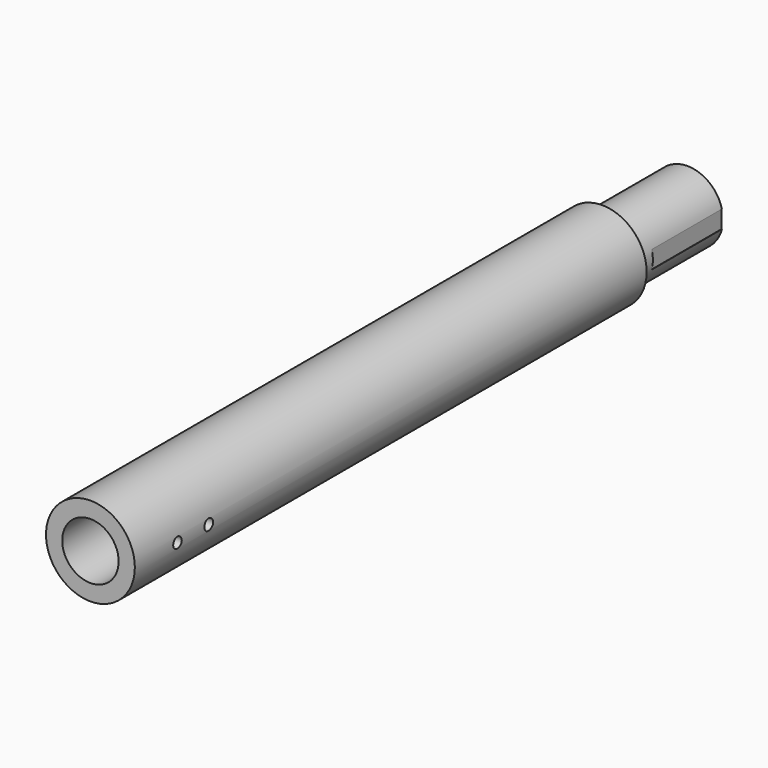
from build123d import *

# Parameters (mm, degrees)
F0_R      = 25
F1_DEPTH  = 420
F2_R      = 15.875
F3_DEPTH  = 70
F4_R      = 3
F4_R_2    = 3.094555
F5_DEPTH  = 48.2
F6_R      = 25
F6_R_2    = 20
F7_DEPTH  = 60
F9_W      = 98.705204
F9_H      = 10
F10_DEPTH = 0.8


with BuildPart() as f1:
    # F0 (on Front) → F1 (new body)
    with BuildSketch(Plane.XZ):
        Circle(F0_R)
    extrude(amount=F1_DEPTH)

    # F2 (on face) → F3 (cut)
    with BuildSketch(Plane.XZ.offset(420)):
        Circle(F2_R)
    extrude(amount=-F3_DEPTH, mode=Mode.SUBTRACT)

    # F4 (on Right) → F5 (cut)
    with BuildSketch(Plane.YZ):
        with Locations((-390, 0)):
            Circle(F4_R)
        with Locations((-368, 0)):
            Circle(F4_R_2)
    extrude(amount=F5_DEPTH, mode=Mode.SUBTRACT)

    # F6 (on face) → F7 (cut)
    with BuildSketch(Plane(origin=(0, 0, 0), x_dir=(-1, 0, 0), z_dir=(0, 1, 0))):
        Circle(F6_R)
        Circle(F6_R_2, mode=Mode.SUBTRACT)
    extrude(amount=-F7_DEPTH, mode=Mode.SUBTRACT)

    # F9 (on offset) → F10 (cut)
    with BuildSketch(Plane.YZ.offset(20)):
        Rectangle(F9_W, F9_H)
    extrude(amount=-F10_DEPTH, mode=Mode.SUBTRACT)


solid = f1.part
